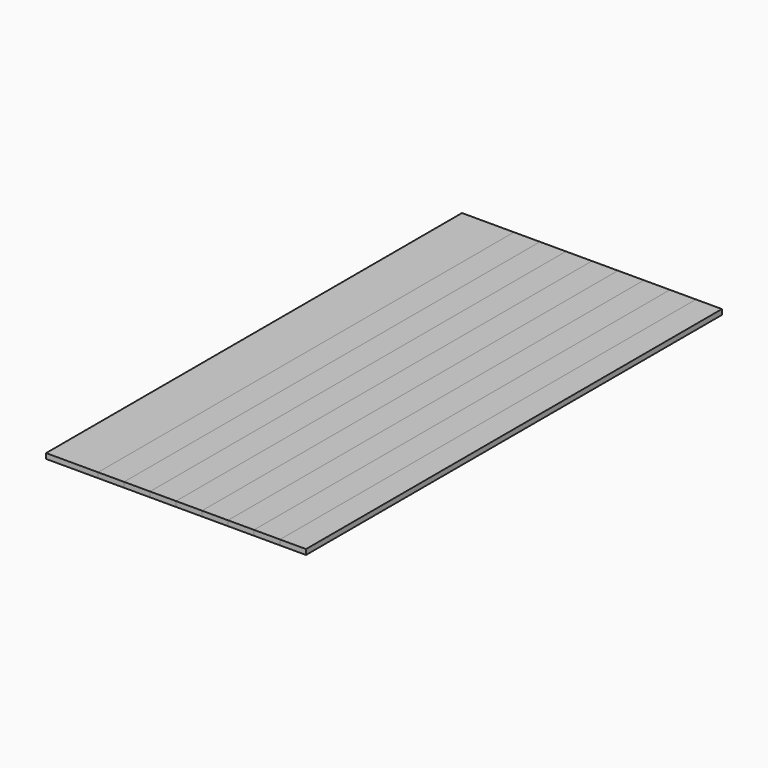
from build123d import *

# Parameters (mm, degrees)
F0_W     = 10
F0_H     = 100
F0_W_2   = 5
F1_DEPTH = 0.5
F2_DEPTH = 0.5


with BuildPart() as f1:
    # F0 (on Top) → F1 (new body, symmetric)
    with BuildSketch(Plane.XY):
        with Locations((5, 0)):
            Rectangle(F0_W, F0_H)
        with Locations((17.5, 0)):
            Rectangle(F0_W_2, F0_H)
        with Locations((27.5, 0)):
            Rectangle(F0_W_2, F0_H)
        with Locations((37.5, 0)):
            Rectangle(F0_W_2, F0_H)
        with Locations((47.5, 0)):
            Rectangle(F0_W_2, F0_H)
    extrude(amount=F1_DEPTH, both=True)


with BuildPart() as f2:
    # F0 (on Top) → F2 (new body, symmetric)
    with BuildSketch(Plane.XY):
        with Locations((42.5, 0)):
            Rectangle(F0_W_2, F0_H)
        with Locations((32.5, 0)):
            Rectangle(F0_W_2, F0_H)
        with Locations((22.5, 0)):
            Rectangle(F0_W_2, F0_H)
        with Locations((12.5, 0)):
            Rectangle(F0_W_2, F0_H)
    extrude(amount=F2_DEPTH, both=True)


solid = Compound([f1.part, f2.part])
